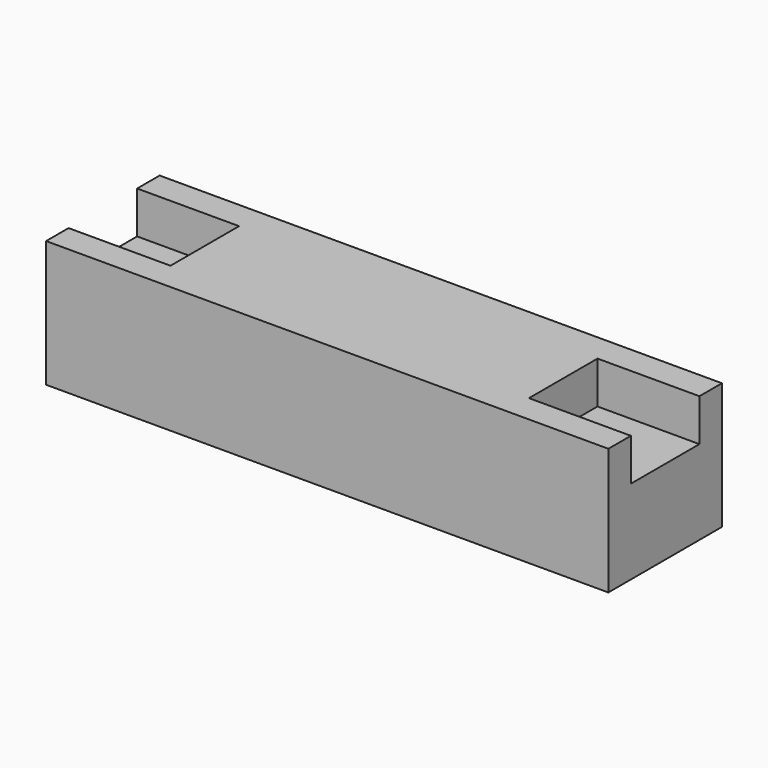
from build123d import *

# Parameters (mm, degrees)
F1_DEPTH = 3.048
F2_W     = 40
F2_H     = 9
F3_DEPTH = 2
F4_W     = 40
F4_H     = 9
F5_DEPTH = 2
F7_D     = 2.5


with BuildPart() as f1:
    # F0 (on Front) → F1 (new body, symmetric)
    with BuildSketch(Plane.XZ):
        Polygon((-12.75, 0), (-20, 0), (-20, -6), (20, -6), (20, 0), (12.75, 0), (12.75, 3), (-12.75, 3), align=None)
    extrude(amount=F1_DEPTH, both=True)

    # F2 (on face) → F3 (join)
    with BuildSketch(Plane.XZ.offset(3.048)):
        with Locations((0, -1.5)):
            Rectangle(F2_W, F2_H)
    extrude(amount=F3_DEPTH)

    # F4 (on face) → F5 (join)
    with BuildSketch(Plane(origin=(0, 3.048, 0), x_dir=(-1, 0, 0), z_dir=(0, 1, 0))):
        with Locations((0, -1.5)):
            Rectangle(F4_W, F4_H)
    extrude(amount=F5_DEPTH)

    # F7 (through all)
    with Locations(Plane.XY):
        with Locations((-15, 0), (15, 0)):
            Hole(F7_D / 2)


solid = f1.part
